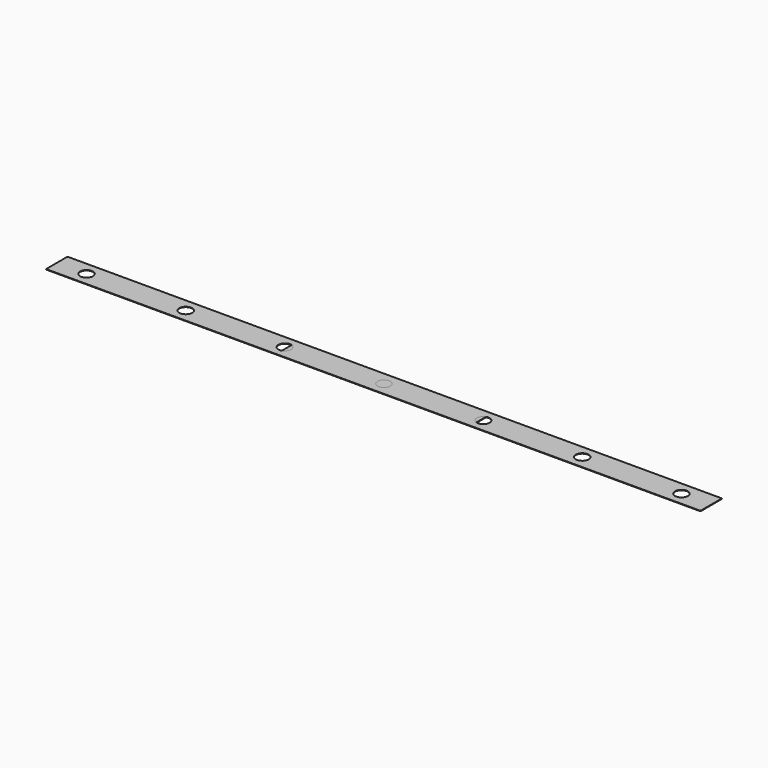
from build123d import *

# Parameters (mm, degrees)
F0_W     = 196
F0_H     = 27
F0_R     = 6.5
F1_DEPTH = 0.5
F2_W     = 660
F2_H     = 27
F2_R     = 6.5
F3_DEPTH = 0.5


with BuildPart() as f1:
    # F0 (on Top) → F1 (new body)
    with BuildSketch(Plane.XY):
        Rectangle(F0_W, F0_H)
        with Locations((-87, 0)):
            Circle(F0_R, mode=Mode.SUBTRACT)
        with Locations((-29, 0)):
            Circle(F0_R, mode=Mode.SUBTRACT)
        with Locations((29, 0)):
            Circle(F0_R, mode=Mode.SUBTRACT)
        with Locations((87, 0)):
            Circle(F0_R, mode=Mode.SUBTRACT)
    extrude(amount=F1_DEPTH)


with BuildPart() as f3:
    # F2 (on Top) → F3 (new body)
    with BuildSketch(Plane.XY):
        Rectangle(F2_W, F2_H)
        with Locations((-300, 0)):
            Circle(F2_R, mode=Mode.SUBTRACT)
        with Locations((-200, 0)):
            Circle(F2_R, mode=Mode.SUBTRACT)
        with Locations((-100, 0)):
            Circle(F2_R, mode=Mode.SUBTRACT)
        Circle(F2_R, mode=Mode.SUBTRACT)
        with Locations((100, 0)):
            Circle(F2_R, mode=Mode.SUBTRACT)
        with Locations((200, 0)):
            Circle(F2_R, mode=Mode.SUBTRACT)
        with Locations((300, 0)):
            Circle(F2_R, mode=Mode.SUBTRACT)
    extrude(amount=F3_DEPTH)


solid = Compound([f1.part, f3.part])
